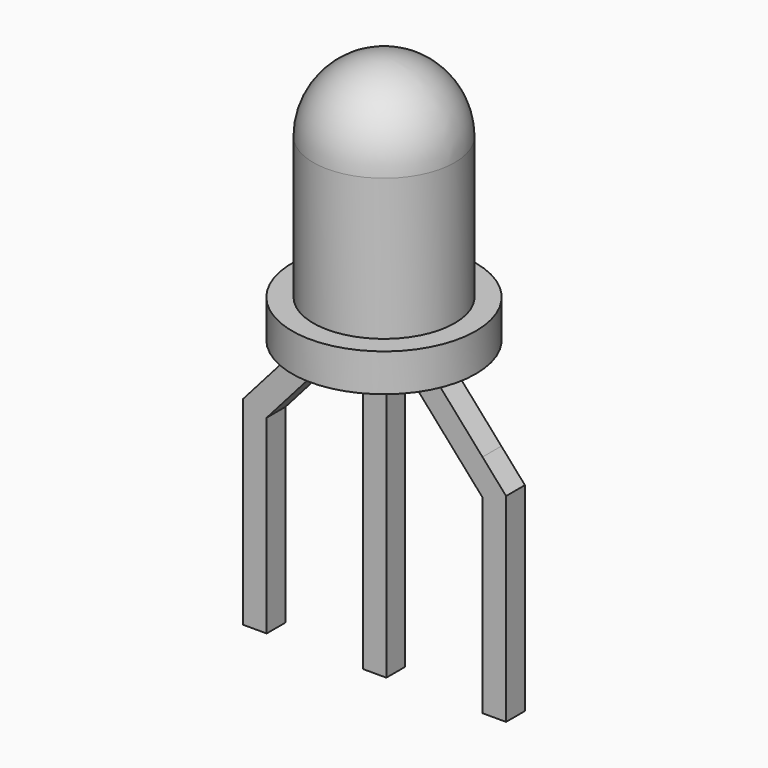
from build123d import *

# Parameters (mm, degrees)
F0_R          = 1.95
F1_DEPTH      = 0.8
F2_R          = 1.5
F3_DEPTH      = 4.5
F4_R          = 1.5
F6_DEPTH      = 0.25
F6_DEPTH_BACK = 0.25


with BuildPart() as f1:
    # F0 (on Top) → F1 (new body)
    with BuildSketch(Plane.XY):
        Circle(F0_R)
    extrude(amount=F1_DEPTH)

    # F2 (on face) → F3 (join)
    with BuildSketch(Plane.XY.offset(0.8)):
        Circle(F2_R)
    extrude(amount=F3_DEPTH)

    # F4
    f4_edges = [f1.edges().sort_by_distance(p)[0] for p in [
        (-1.5, 0, 5.3),
    ]]
    fillet(f4_edges, radius=F4_R)


with BuildPart() as f6:
    # F5 (on Front) → F6 (new body, two sides)
    with BuildSketch(Plane.XZ) as f6_sk:
        Polygon((-2.29, -1.340597), (-2.54, -1.623856), (-2.54, -6.126423), (-2.29, -6.126423), (-2.29, -2.096204), align=None)
        Polygon((-2.54, -6.126423), (-2.54, -1.623856), (-2.79, -1.907115), (-2.79, -6.126423), align=None)
        Polygon((-1.106809, 0), (-2.29, -1.340597), (-2.29, -2.096204), (-0.731933, -0.33086), (-0.25, -0.33086), (0.25, -0.33086), (0.731933, -0.33086), (2.29, -2.096204), (2.29, -1.340597), (1.106809, 0), align=None)
        Polygon((0.25, -0.33086), (-0.25, -0.33086), (-0.25, -6.126423), (0, -6.126423), (0.25, -6.126423), align=None)
        Polygon((2.54, -1.623856), (2.29, -1.340597), (2.29, -2.096204), (2.29, -6.126423), (2.54, -6.126423), align=None)
        Polygon((2.79, -1.907115), (2.54, -1.623856), (2.54, -6.126423), (2.79, -6.126423), align=None)
    extrude(amount=F6_DEPTH)
    extrude(f6_sk.sketch, amount=-F6_DEPTH_BACK)


solid = Compound([f1.part, f6.part])
